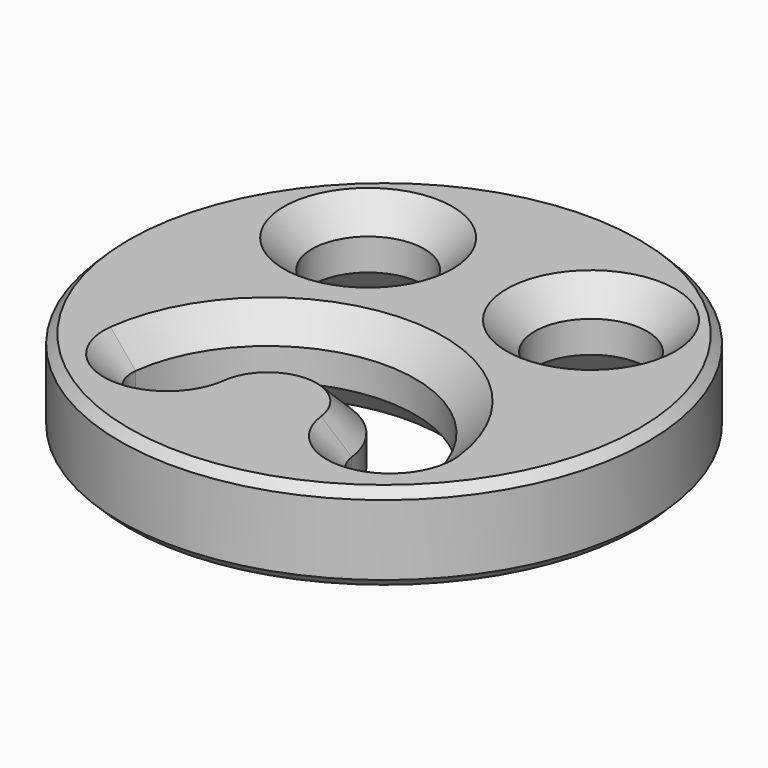
from build123d import *

# Parameters (mm, degrees)
F0_R     = 19.05
F0_R_2   = 4.056964
F1_DEPTH = 6.35
F2_SIZE  = 2.032
F3_SIZE  = 0.635


with BuildPart() as f1:
    # F0 (on Top) → F1 (new body)
    with BuildSketch(Plane.XY):
        Circle(F0_R)
        with BuildLine():
            ThreePointArc((-10.56212, -9.204333), (0, 0.146205), (10.56212, -9.204333))
            ThreePointArc((10.56212, -9.204333), (8.348809, -12.033548), (5.519595, -9.820236))
            ThreePointArc((5.519595, -9.820236), (0, -4.933795), (-5.519595, -9.820236))
            ThreePointArc((-5.519595, -9.820236), (-8.348809, -12.033548), (-10.56212, -9.204333))
        make_face(mode=Mode.SUBTRACT)
        with Locations((-8.040858, 8.613517)):
            Circle(F0_R_2, mode=Mode.SUBTRACT)
        with Locations((8.040858, 8.613517)):
            Circle(F0_R_2, mode=Mode.SUBTRACT)
    extrude(amount=F1_DEPTH)

    # F2
    f2_edges = [f1.edges().sort_by_distance(p)[0] for p in [
        (0, 0.146205, 6.35),
        (0, 0.146205, 0),
        (0, -4.933795, 6.35),
        (8.348809, -12.033548, 6.35),
        (-8.348809, -12.033548, 6.35),
        (8.348809, -12.033548, 0),
        (0, -4.933795, 0),
        (-8.348809, -12.033548, 0),
        (3.983894, 8.613517, 6.35),
        (3.983894, 8.613517, 0),
        (-12.097821, 8.613517, 0),
        (-12.097821, 8.613517, 6.35),
    ]]
    chamfer(f2_edges, length=F2_SIZE)

    # F3
    f3_edges = [f1.edges().sort_by_distance(p)[0] for p in [
        (-19.05, 0, 6.35),
        (-19.05, 0, 0),
    ]]
    chamfer(f3_edges, length=F3_SIZE)


solid = f1.part
